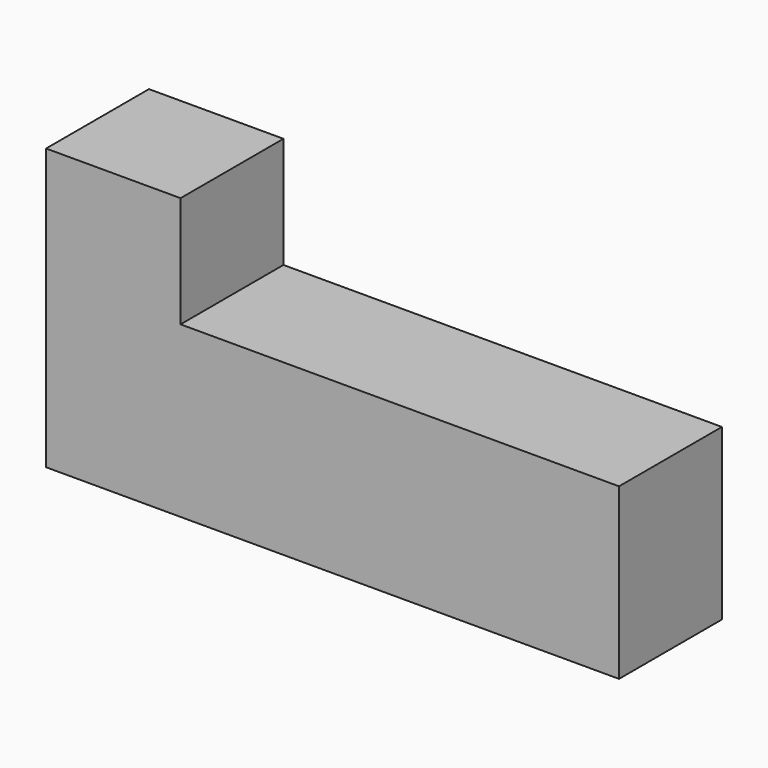
from build123d import *

# Parameters (mm, degrees)
F0_W     = 36.5125
F0_H     = 30.1625
F1_DEPTH = 17.4625


with BuildPart() as f1:
    # F0 (on Front) → F1 (new body, symmetric)
    with BuildSketch(Plane.XZ):
        Polygon((77.7875, -23.01875), (77.7875, 23.01875), (-41.275, 23.01875), (-77.7875, 23.01875), (-77.7875, -23.01875), align=None)
        with Locations((-59.53125, 38.1)):
            Rectangle(F0_W, F0_H)
    extrude(amount=F1_DEPTH, both=True)


solid = f1.part
